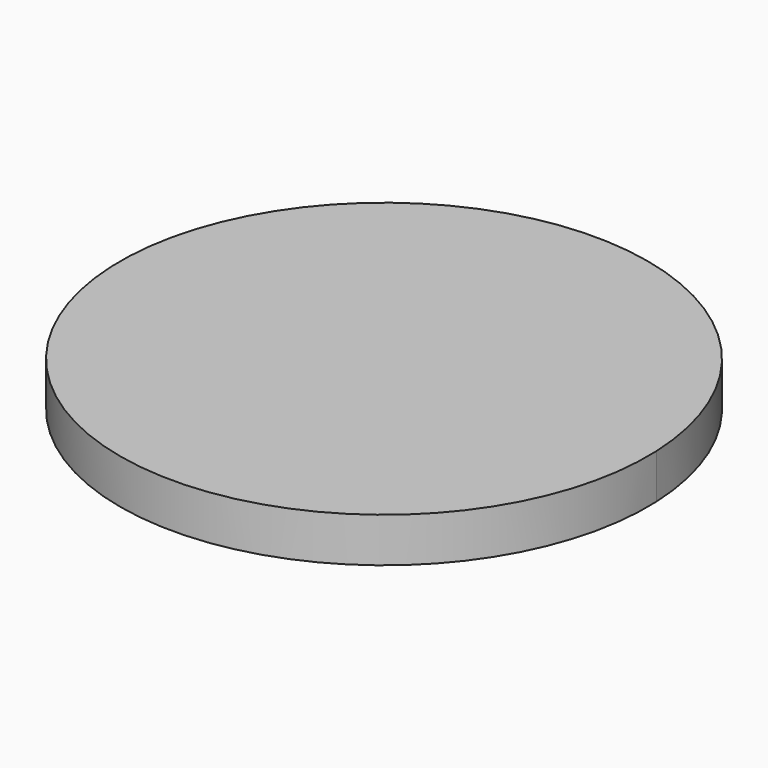
from build123d import *

# Parameters (mm, degrees)
F1_DEPTH = 10


with BuildPart() as f1:
    # F0 (on Top) → F1 (new body)
    with BuildSketch(Plane.XY):
        with BuildLine():
            ThreePointArc((-58.128193, 0), (1.121214, -61.79121), (60.37062, 0))
            ThreePointArc((60.37062, 0), (1.121214, 56.832635), (-58.128193, 0))
        make_face()
    extrude(amount=F1_DEPTH)


solid = f1.part
